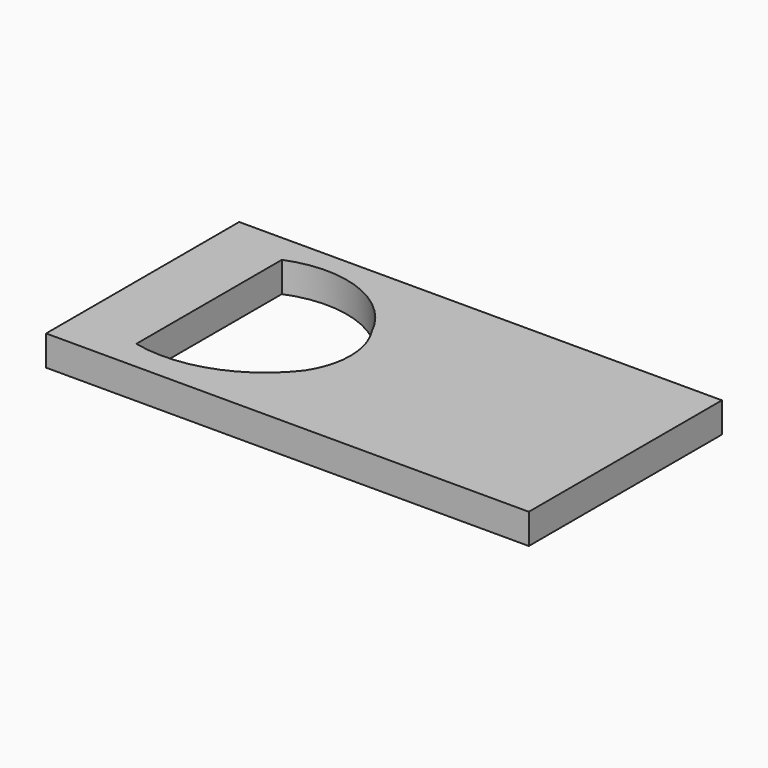
from build123d import *

# Parameters (mm, degrees)
F0_W     = 101.6
F0_H     = 50.8
F1_DEPTH = 6.35


with BuildPart() as f1:
    # F0 (on Top) → F1 (new body)
    with BuildSketch(Plane.XY):
        Rectangle(F0_W, F0_H)
        with BuildLine():
            Line((-36.910057, -19.028166), (-36.910057, 19.257423))
            ThreePointArc((-36.910057, 19.257423), (-20.99422, 19.386193), (-9.399456, 8.482436))
            ThreePointArc((-9.399456, 8.482436), (-6.755652, -0.343882), (-9.399456, -9.170201))
            ThreePointArc((-9.399456, -9.170201), (-21.7077, -18.13748), (-36.910057, -19.028166))
        make_face(mode=Mode.SUBTRACT)
    extrude(amount=F1_DEPTH)


solid = f1.part
